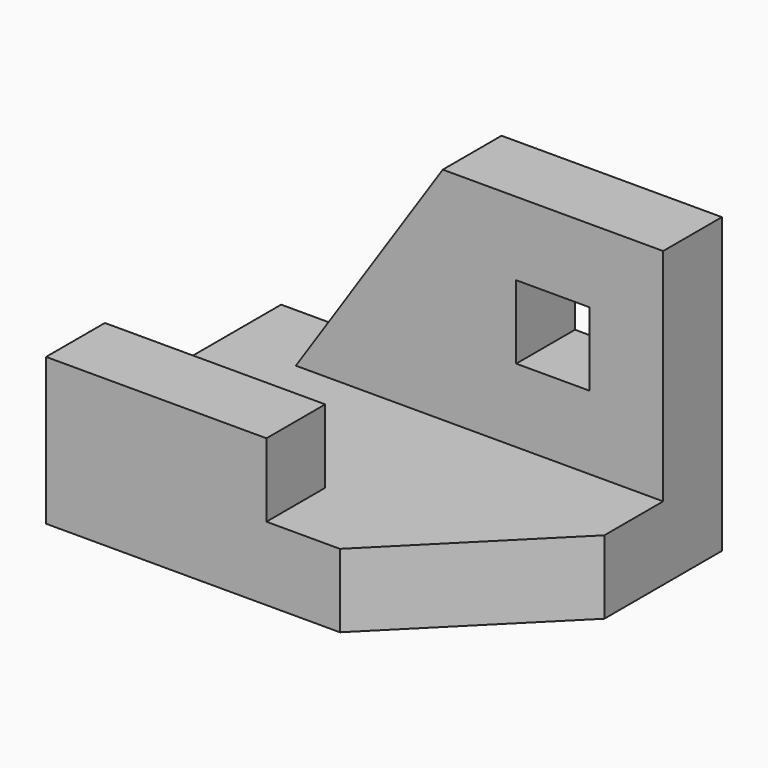
from build123d import *

# Parameters (mm, degrees)
F0_W      = 60
F0_H      = 40
F1_DEPTH  = 40
F3_DEPTH  = 60
F4_W      = 30
F4_H      = 10
F5_DEPTH  = 10
F7_DEPTH  = 10
F9_DEPTH  = 10
F10_W     = 10
F10_H     = 10
F11_DEPTH = 10


with BuildPart() as f1:
    # F0 (on Front) → F1 (new body)
    with BuildSketch(Plane.XZ):
        with Locations((30, 20)):
            Rectangle(F0_W, F0_H)
    extrude(amount=F1_DEPTH)

    # F2 (on face) → F3 (cut)
    with BuildSketch(Plane.YZ.offset(60)):
        Polygon((-10, 10), (-10, 40), (-40, 40), (-40, 20), (-30, 20), (-30, 10), align=None)
    extrude(amount=-F3_DEPTH, mode=Mode.SUBTRACT)

    # F4 (on face) → F5 (cut)
    with BuildSketch(Plane.XY.offset(20)):
        with Locations((45, -35)):
            Rectangle(F4_W, F4_H)
    extrude(amount=-F5_DEPTH, mode=Mode.SUBTRACT)

    # F6 (on face) → F7 (cut)
    with BuildSketch(Plane.XY.offset(10)):
        Polygon((40, -40), (60, -40), (60, -20), align=None)
    extrude(amount=-F7_DEPTH, mode=Mode.SUBTRACT)

    # F8 (on face) → F9 (cut)
    with BuildSketch(Plane(origin=(0, 0, 0), x_dir=(-1, 0, 0), z_dir=(0, 1, 0))):
        Polygon((-10, 10), (0, 10), (0, 40), (-30, 40), align=None)
    extrude(amount=-F9_DEPTH, mode=Mode.SUBTRACT)

    # F10 (on face) → F11 (cut)
    with BuildSketch(Plane.XZ.offset(10)):
        with Locations((45, 25)):
            Rectangle(F10_W, F10_H)
    extrude(amount=-F11_DEPTH, mode=Mode.SUBTRACT)


solid = f1.part
